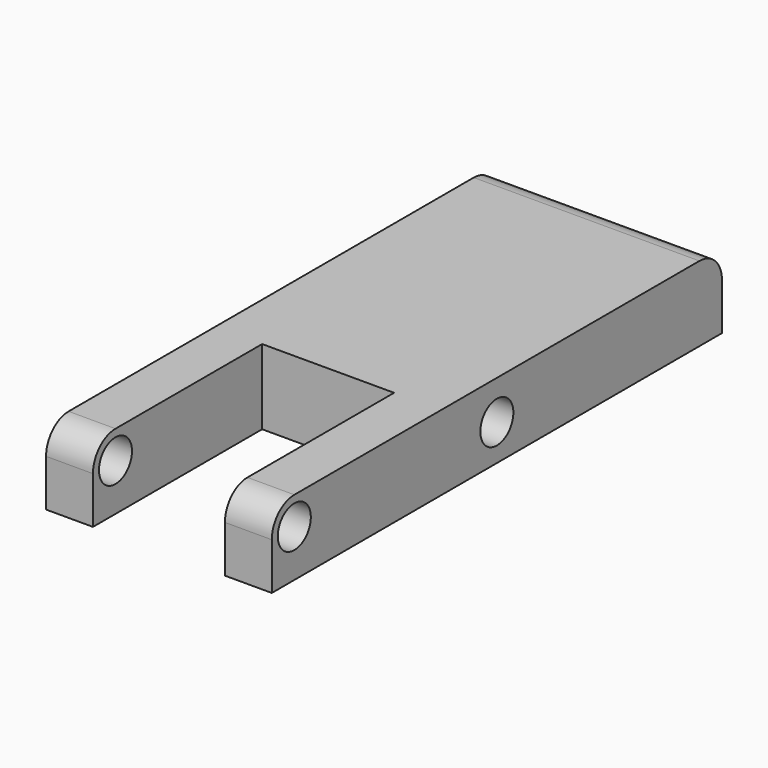
from build123d import *

# Parameters (mm, degrees)
F1_DEPTH = 8
F2_R     = 3
F4_D     = 4.4
F6_D     = 4.4


with BuildPart() as f1:
    # F0 (on Top) → F1 (new body)
    with BuildSketch(Plane.XY):
        Polygon((0, 30), (0, 0), (0, -30), (5, -30), (5, -7.4492068961), (19.0707250684, -7.4492068961), (19.0707250684, -30), (24.0707250684, -30), (24.0707250684, 30), align=None)
    extrude(amount=F1_DEPTH)

    # F2
    f2_edges = [f1.edges().sort_by_distance(p)[0] for p in [
        (21.570725, -30, 8),
        (2.5, -30, 8),
        (12.035363, 30, 8),
    ]]
    fillet(f2_edges, radius=F2_R)

    # F4 (through all)
    with Locations(Plane.YZ.offset(24.0707250684)):
        with Locations((-27, 5)):
            Hole(F4_D / 2)

    # F6 (through all)
    with Locations(Plane.YZ.offset(24.0707250684)):
        with Locations((0, 3.8463051897)):
            Hole(F6_D / 2)


solid = f1.part
